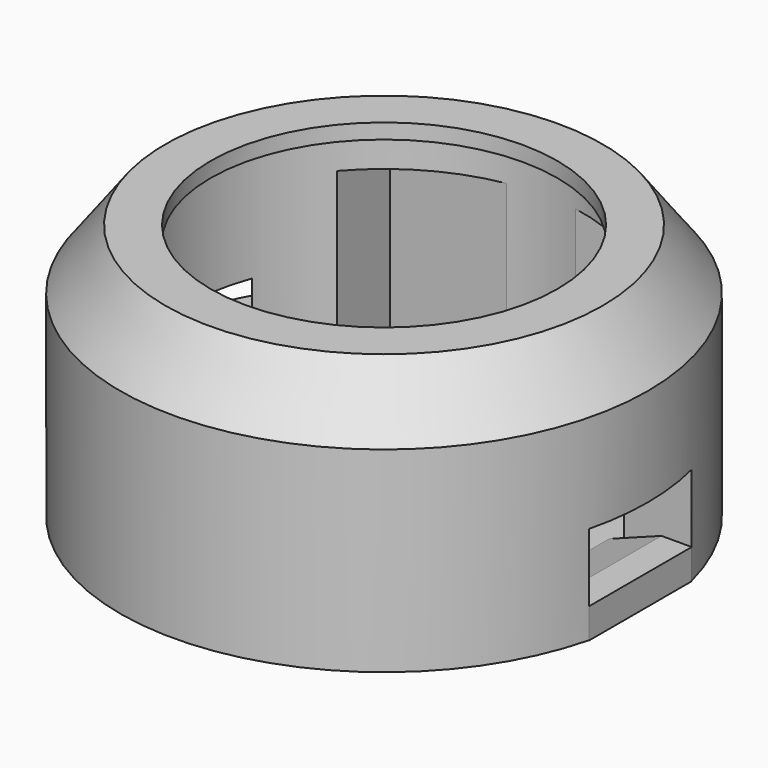
from build123d import *

# Parameters (mm, degrees)
CYLINDER007_R              = 1
CYLINDER007_DEPTH          = 6
CYLINDER008_R              = 1
CYLINDER008_DEPTH          = 6
CYLINDER002_R              = 11.5
CYLINDER002_DEPTH          = 30
BOX_W                      = 20
BOX_H                      = 26
BOX_DEPTH                  = 13.4
BOX001_W                   = 16
BOX001_H                   = 8.5
BOX001_DEPTH               = 7
CYLINDER018_R              = 9
CYLINDER018_DEPTH          = 3.5
CYLINDER017_R              = 12
CYLINDER017_DEPTH          = 3.5
BOX006_W                   = 10
BOX006_H                   = 2
BOX006_DEPTH               = 1.5
BOX007_W                   = 10
BOX007_H                   = 2
BOX007_DEPTH               = 1.5
CYLINDER_R                 = 13.2
CYLINDER_DEPTH             = 16
CYLINDER006_R              = 17.5
CYLINDER006_DEPTH          = 17
CHAMFER_SIZE2              = 3
CHAMFER_SIZE               = 4
BOX002_W                   = 20
BOX002_H                   = 26
BOX002_DEPTH               = 0.7
CYLINDER016_R              = 3
CYLINDER016_DEPTH          = 1.5
BOX003_W                   = 6
BOX003_H                   = 8.5
BOX003_DEPTH               = 2
CHAMFER004_SIZE2           = 4
CHAMFER004_SIZE            = 1.5
BOX008_W                   = 9
BOX008_H                   = 2
BOX008_DEPTH               = 1
BOX004_W                   = 9
BOX004_H                   = 2.75
BOX004_DEPTH               = 1
CHAMFER005_SIZE2           = 0.9
CHAMFER005_SIZE            = 1.5
CHAMFER006_SIZE            = 0.45
CHAMFER006_PLACEMENT_ANGLE = 180
CHAMFER007_SIZE            = 0.45
CYLINDER019_R              = 13.2
CYLINDER019_DEPTH          = 0.7


with BuildPart() as r_screw:
    # Cylinder007 → Cylinder007 (new body)
    with BuildSketch(Plane(origin=(0, -15.2, 0), x_dir=(1, 0, 0), z_dir=(0, 0, 1))):
        Circle(CYLINDER007_R)
    extrude(amount=CYLINDER007_DEPTH)


with BuildPart() as l_screw:
    # Cylinder008 → Cylinder008 (new body)
    with BuildSketch(Plane(origin=(0, 15.2, 0), x_dir=(1, 0, 0), z_dir=(0, 0, 1))):
        Circle(CYLINDER008_R)
    extrude(amount=CYLINDER008_DEPTH)


with BuildPart() as diffuserhole:
    # Cylinder002 → Cylinder002 (new body)
    with BuildSketch(Plane.XY):
        Circle(CYLINDER002_R)
    extrude(amount=CYLINDER002_DEPTH)


with BuildPart() as batteryhole:
    # Box → Box (new body)
    with BuildSketch(Plane(origin=(-10, -13, -1), x_dir=(1, 0, 0), z_dir=(0, 0, 1))):
        with Locations((10, 13)):
            Rectangle(BOX_W, BOX_H)
    extrude(amount=BOX_DEPTH)


with BuildPart() as usb:
    # Box001 → Box001 (new body)
    with BuildSketch(Plane(origin=(7, -4.25, -1.5), x_dir=(1, 0, 0), z_dir=(0, 0, 1))):
        with Locations((8, 4.25)):
            Rectangle(BOX001_W, BOX001_H)
    extrude(amount=BOX001_DEPTH)


with BuildPart() as cylinder001:
    # Cylinder018 → Cylinder018 (new body)
    with BuildSketch(Plane(origin=(-23.5, 0, 3.5), x_dir=(1, 0, 0), z_dir=(0, 0, 1))):
        Circle(CYLINDER018_R)
    extrude(amount=CYLINDER018_DEPTH)


with BuildPart() as chain_channel:
    # Cylinder017 → Cylinder017 (new body)
    with BuildSketch(Plane(origin=(-23.5, 0, 3.5), x_dir=(1, 0, 0), z_dir=(0, 0, 1))):
        Circle(CYLINDER017_R)
    extrude(amount=CYLINDER017_DEPTH)

    # Cut002: cut Cylinder001
    add(cylinder001.part, mode=Mode.SUBTRACT)


with BuildPart() as tab_2_female:
    # Box006 → Box006 (new body)
    with BuildSketch(Plane(origin=(-5, -14, 0), x_dir=(1, 0, 0), z_dir=(0, 0, 1))):
        with Locations((5, 1)):
            Rectangle(BOX006_W, BOX006_H)
    extrude(amount=BOX006_DEPTH)


with BuildPart() as tab_1_female:
    # Box007 → Box007 (new body)
    with BuildSketch(Plane(origin=(-5, 12, 0), x_dir=(1, 0, 0), z_dir=(0, 0, 1))):
        with Locations((5, 1)):
            Rectangle(BOX007_W, BOX007_H)
    extrude(amount=BOX007_DEPTH)


with BuildPart() as guts:
    # Cylinder → Cylinder (new body)
    with BuildSketch(Plane.XY.offset(-1)):
        Circle(CYLINDER_R)
    extrude(amount=CYLINDER_DEPTH)

    # Fusion: union DiffuserHole, BatteryHole, USB, Chain Channel, Tab 2 Female, Tab 1 Female
    add(diffuserhole.part)
    add(batteryhole.part)
    add(usb.part)
    add(chain_channel.part)
    add(tab_2_female.part)
    add(tab_1_female.part)


with BuildPart() as front:
    # Cylinder006 → Cylinder006 (new body)
    with BuildSketch(Plane.XY.offset(-1)):
        Circle(CYLINDER006_R)
    extrude(amount=CYLINDER006_DEPTH)

    # Chamfer
    chamfer_edges = [front.edges().sort_by_distance(p)[0] for p in [
        (-17.5, 0, 16),
    ]]
    chamfer_side = front.faces().sort_by_distance((-17.5, 0, 7.5))[0]
    chamfer(chamfer_edges, length=CHAMFER_SIZE, length2=CHAMFER_SIZE2, reference=chamfer_side)

    # Cut: cut Guts
    add(guts.part, mode=Mode.SUBTRACT)


with BuildPart() as batteryhole001:
    # Box002 → Box002 (new body)
    with BuildSketch(Plane(origin=(-10, -13, -1), x_dir=(1, 0, 0), z_dir=(0, 0, 1))):
        with Locations((10, 13)):
            Rectangle(BOX002_W, BOX002_H)
    extrude(amount=BOX002_DEPTH)


with BuildPart() as button_presser:
    # Cylinder016 → Cylinder016 (new body)
    with BuildSketch(Plane.XY.offset(-0.5)):
        Circle(CYLINDER016_R)
    extrude(amount=CYLINDER016_DEPTH)


with BuildPart() as usb_cover:
    # Box003 → Box003 (new body)
    with BuildSketch(Plane(origin=(11, -4.25, -1), x_dir=(1, 0, 0), z_dir=(0, 0, 1))):
        with Locations((3, 4.25)):
            Rectangle(BOX003_W, BOX003_H)
    extrude(amount=BOX003_DEPTH)

    # Chamfer004
    chamfer004_edges = [usb_cover.edges().sort_by_distance(p)[0] for p in [
        (11, 0, 1),
    ]]
    chamfer004_side = usb_cover.faces().sort_by_distance((11, 0, 0))[0]
    chamfer(chamfer004_edges, length=CHAMFER004_SIZE, length2=CHAMFER004_SIZE2, reference=chamfer004_side)


with BuildPart() as tab_base:
    # Box008 → Box008 (new body)
    with BuildSketch(Plane(origin=(-4.5, 10.75, -0.75), x_dir=(1, 0, 0), z_dir=(0, 0, 1))):
        with Locations((4.5, 1)):
            Rectangle(BOX008_W, BOX008_H)
    extrude(amount=BOX008_DEPTH)


with BuildPart() as chamfer005:
    # Box004 → Box004 (new body)
    with BuildSketch(Plane(origin=(-4.5, 10.75, 0.25), x_dir=(1, 0, 0), z_dir=(0, 0, 1))):
        with Locations((4.5, 1.375)):
            Rectangle(BOX004_W, BOX004_H)
    extrude(amount=BOX004_DEPTH)

    # Fusion002: union Tab Base
    add(tab_base.part)

    # Chamfer005
    chamfer005_edges = [chamfer005.edges().sort_by_distance(p)[0] for p in [
        (0, 10.75, 1.25),
    ]]
    chamfer005_side = chamfer005.faces().sort_by_distance((0, 12.125, 1.25))[0]
    chamfer(chamfer005_edges, length=CHAMFER005_SIZE, length2=CHAMFER005_SIZE2, reference=chamfer005_side)


with BuildPart() as chamfer006:
    # Chamfer006 base: copy of Chamfer005
    add(chamfer005.part)

    # Chamfer006
    chamfer006_edges = [chamfer006.edges().sort_by_distance(p)[0] for p in [
        (0, 13.5, 1.25),
        (0, 13.5, 0.25),
    ]]
    chamfer(chamfer006_edges, length=CHAMFER006_SIZE)


with BuildPart() as chamfer006_1:
    # Chamfer006 placement: moved
    add(chamfer006.part.rotate(Axis((0, 0, 0), (0, 0, 1)), CHAMFER006_PLACEMENT_ANGLE))


with BuildPart() as chamfer007:
    # Chamfer007 base: copy of Chamfer005
    add(chamfer005.part)

    # Chamfer007
    chamfer007_edges = [chamfer007.edges().sort_by_distance(p)[0] for p in [
        (0, 13.5, 1.25),
        (0, 13.5, 0.25),
    ]]
    chamfer(chamfer007_edges, length=CHAMFER007_SIZE)


with BuildPart() as back:
    # Cylinder019 → Cylinder019 (new body)
    with BuildSketch(Plane.XY.offset(-1)):
        Circle(CYLINDER019_R)
    extrude(amount=CYLINDER019_DEPTH)

    # Fusion001: union BatteryHole001, Button Presser, USB Cover, Chamfer006, Chamfer007
    add(batteryhole001.part)
    add(button_presser.part)
    add(usb_cover.part)
    add(chamfer006_1.part)
    add(chamfer007.part)


solid = Compound([r_screw.part, l_screw.part, front.part, back.part])
